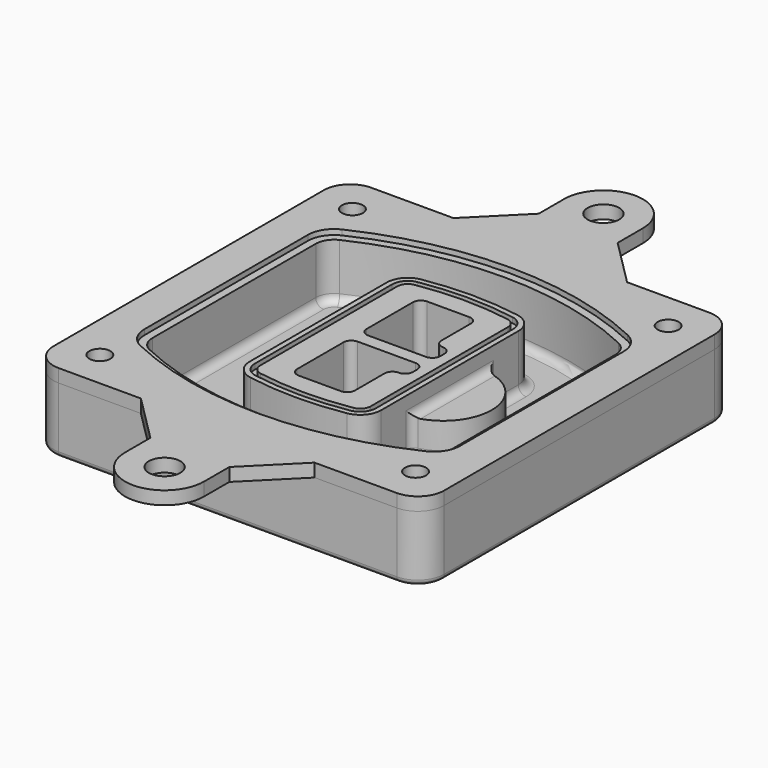
from build123d import *

# Parameters (mm, degrees)
F0_R      = 4
F1_DEPTH  = 25
F2_DEPTH  = 3
F3_DEPTH  = 18
F5_DEPTH  = 21
F6_DEPTH  = 2
F8_DEPTH  = 20
F9_DEPTH  = 16
F11_DEPTH = 9
F12_R     = 3
F13_R     = 2
F14_R     = 6
F14_R_2   = 4
F15_DEPTH = 5


with BuildPart() as f1:
    # F0 (on Top) → F1 (new body)
    with BuildSketch(Plane.XY):
        with BuildLine():
            ThreePointArc((-74.25, -64.25), (-71.3210678119, -71.3210678119), (-64.25, -74.25))
            Line((-64.25, -74.25), (64.25, -74.25))
            ThreePointArc((64.25, -74.25), (71.3210678119, -71.3210678119), (74.25, -64.25))
            Line((74.25, -64.25), (74.25, 64.25))
            ThreePointArc((74.25, 64.25), (71.3210678119, 71.3210678119), (64.25, 74.25))
            Line((64.25, 74.25), (-64.25, 74.25))
            ThreePointArc((-64.25, 74.25), (-71.3210678119, 71.3210678119), (-74.25, 64.25))
            Line((-74.25, 64.25), (-74.25, -64.25))
        make_face()
        with Locations((-60, -60)):
            Circle(F0_R, mode=Mode.SUBTRACT)
        with Locations((60, -60)):
            Circle(F0_R, mode=Mode.SUBTRACT)
        with Locations((-60, 60)):
            Circle(F0_R, mode=Mode.SUBTRACT)
        with BuildLine():
            ThreePointArc((-64, 38.8308515907), (-61.8195654598, 46.3340424013), (-55.9574468085, 51.5000594398))
            ThreePointArc((-55.9574468085, 51.5000594398), (0, 64), (55.9574468085, 51.5000594398))
            ThreePointArc((55.9574468085, 51.5000594398), (61.8195654598, 46.3340424013), (64, 38.8308515907))
            Line((64, 38.8308515907), (64, -38.8308515907))
            ThreePointArc((64, -38.8308515907), (61.8195654598, -46.3340424013), (55.9574468085, -51.5000594398))
            ThreePointArc((55.9574468085, -51.5000594398), (0, -64), (-55.9574468085, -51.5000594398))
            ThreePointArc((-55.9574468085, -51.5000594398), (-61.8195654598, -46.3340424013), (-64, -38.8308515907))
            Line((-64, -38.8308515907), (-64, 38.8308515907))
        make_face(mode=Mode.SUBTRACT)
        with Locations((60, 60)):
            Circle(F0_R, mode=Mode.SUBTRACT)
        with BuildLine():
            ThreePointArc((55.9574468085, 51.5000594398), (0, 64), (-55.9574468085, 51.5000594398))
            ThreePointArc((-55.9574468085, 51.5000594398), (-61.8195654598, 46.3340424013), (-64, 38.8308515907))
            Line((-64, 38.8308515907), (-64, -38.8308515907))
            ThreePointArc((-64, -38.8308515907), (-61.8195654598, -46.3340424013), (-55.9574468085, -51.5000594398))
            ThreePointArc((-55.9574468085, -51.5000594398), (0, -64), (55.9574468085, -51.5000594398))
            ThreePointArc((55.9574468085, -51.5000594398), (61.8195654598, -46.3340424013), (64, -38.8308515907))
            Line((64, -38.8308515907), (64, 38.8308515907))
            ThreePointArc((64, 38.8308515907), (61.8195654598, 46.3340424013), (55.9574468085, 51.5000594398))
        make_face()
        with BuildLine():
            Line((-60, -38.8308515907), (-60, 38.8308515907))
            ThreePointArc((-60, 38.8308515907), (-58.442546757, 44.1902735983), (-54.2553191489, 47.8802857686))
            ThreePointArc((-54.2553191489, 47.8802857686), (0, 60), (54.2553191489, 47.8802857686))
            ThreePointArc((54.2553191489, 47.8802857686), (58.442546757, 44.1902735983), (60, 38.8308515907))
            Line((60, 38.8308515907), (60, -38.8308515907))
            ThreePointArc((60, -38.8308515907), (58.442546757, -44.1902735983), (54.2553191489, -47.8802857686))
            ThreePointArc((54.2553191489, -47.8802857686), (0, -60), (-54.2553191489, -47.8802857686))
            ThreePointArc((-54.2553191489, -47.8802857686), (-58.442546757, -44.1902735983), (-60, -38.8308515907))
        make_face(mode=Mode.SUBTRACT)
        with BuildLine():
            ThreePointArc((-54.2553191489, 47.8802857686), (-58.442546757, 44.1902735983), (-60, 38.8308515907))
            Line((-60, 38.8308515907), (-60, -38.8308515907))
            ThreePointArc((-60, -38.8308515907), (-58.442546757, -44.1902735983), (-54.2553191489, -47.8802857686))
            ThreePointArc((-54.2553191489, -47.8802857686), (0, -60), (54.2553191489, -47.8802857686))
            ThreePointArc((54.2553191489, -47.8802857686), (58.442546757, -44.1902735983), (60, -38.8308515907))
            Line((60, -38.8308515907), (60, 38.8308515907))
            ThreePointArc((60, 38.8308515907), (58.442546757, 44.1902735983), (54.2553191489, 47.8802857686))
            ThreePointArc((54.2553191489, 47.8802857686), (0, 60), (-54.2553191489, 47.8802857686))
        make_face()
        with BuildLine():
            ThreePointArc((52.9787234043, 45.1654555152), (55.9097827299, 42.582446996), (57, 38.8308515907))
            Line((57, 38.8308515907), (57, -38.8308515907))
            ThreePointArc((57, -38.8308515907), (55.9097827299, -42.582446996), (52.9787234043, -45.1654555152))
            ThreePointArc((52.9787234043, -45.1654555152), (0, -57), (-52.9787234043, -45.1654555152))
            ThreePointArc((-52.9787234043, -45.1654555152), (-55.9097827299, -42.582446996), (-57, -38.8308515907))
            Line((-57, -38.8308515907), (-57, 38.8308515907))
            ThreePointArc((-57, 38.8308515907), (-55.9097827299, 42.582446996), (-52.9787234043, 45.1654555152))
            ThreePointArc((-52.9787234043, 45.1654555152), (0, 57), (52.9787234043, 45.1654555152))
        make_face(mode=Mode.SUBTRACT)
        with BuildLine():
            Line((57, -38.8308515907), (57, 38.8308515907))
            ThreePointArc((57, 38.8308515907), (55.9097827299, 42.582446996), (52.9787234043, 45.1654555152))
            ThreePointArc((52.9787234043, 45.1654555152), (0, 57), (-52.9787234043, 45.1654555152))
            ThreePointArc((-52.9787234043, 45.1654555152), (-55.9097827299, 42.582446996), (-57, 38.8308515907))
            Line((-57, 38.8308515907), (-57, -38.8308515907))
            ThreePointArc((-57, -38.8308515907), (-55.9097827299, -42.582446996), (-52.9787234043, -45.1654555152))
            ThreePointArc((-52.9787234043, -45.1654555152), (0, -57), (52.9787234043, -45.1654555152))
            ThreePointArc((52.9787234043, -45.1654555152), (55.9097827299, -42.582446996), (57, -38.8308515907))
        make_face()
    extrude(amount=-F1_DEPTH)

    # F0 (on Top) → F2 (join)
    with BuildSketch(Plane.XY):
        with BuildLine():
            ThreePointArc((-54.2553191489, 47.8802857686), (-58.442546757, 44.1902735983), (-60, 38.8308515907))
            Line((-60, 38.8308515907), (-60, -38.8308515907))
            ThreePointArc((-60, -38.8308515907), (-58.442546757, -44.1902735983), (-54.2553191489, -47.8802857686))
            ThreePointArc((-54.2553191489, -47.8802857686), (0, -60), (54.2553191489, -47.8802857686))
            ThreePointArc((54.2553191489, -47.8802857686), (58.442546757, -44.1902735983), (60, -38.8308515907))
            Line((60, -38.8308515907), (60, 38.8308515907))
            ThreePointArc((60, 38.8308515907), (58.442546757, 44.1902735983), (54.2553191489, 47.8802857686))
            ThreePointArc((54.2553191489, 47.8802857686), (0, 60), (-54.2553191489, 47.8802857686))
        make_face()
        with BuildLine():
            ThreePointArc((52.9787234043, 45.1654555152), (55.9097827299, 42.582446996), (57, 38.8308515907))
            Line((57, 38.8308515907), (57, -38.8308515907))
            ThreePointArc((57, -38.8308515907), (55.9097827299, -42.582446996), (52.9787234043, -45.1654555152))
            ThreePointArc((52.9787234043, -45.1654555152), (0, -57), (-52.9787234043, -45.1654555152))
            ThreePointArc((-52.9787234043, -45.1654555152), (-55.9097827299, -42.582446996), (-57, -38.8308515907))
            Line((-57, -38.8308515907), (-57, 38.8308515907))
            ThreePointArc((-57, 38.8308515907), (-55.9097827299, 42.582446996), (-52.9787234043, 45.1654555152))
            ThreePointArc((-52.9787234043, 45.1654555152), (0, 57), (52.9787234043, 45.1654555152))
        make_face(mode=Mode.SUBTRACT)
    extrude(amount=F2_DEPTH)

    # F0 (on Top) → F3 (cut)
    with BuildSketch(Plane.XY):
        with BuildLine():
            Line((57, -38.8308515907), (57, 38.8308515907))
            ThreePointArc((57, 38.8308515907), (55.9097827299, 42.582446996), (52.9787234043, 45.1654555152))
            ThreePointArc((52.9787234043, 45.1654555152), (0, 57), (-52.9787234043, 45.1654555152))
            ThreePointArc((-52.9787234043, 45.1654555152), (-55.9097827299, 42.582446996), (-57, 38.8308515907))
            Line((-57, 38.8308515907), (-57, -38.8308515907))
            ThreePointArc((-57, -38.8308515907), (-55.9097827299, -42.582446996), (-52.9787234043, -45.1654555152))
            ThreePointArc((-52.9787234043, -45.1654555152), (0, -57), (52.9787234043, -45.1654555152))
            ThreePointArc((52.9787234043, -45.1654555152), (55.9097827299, -42.582446996), (57, -38.8308515907))
        make_face()
    extrude(amount=-F3_DEPTH, mode=Mode.SUBTRACT)

    # F4 (on face) → F5 (join, through all)
    with BuildSketch(Plane.XY.offset(3)):
        with BuildLine():
            ThreePointArc((-25, -32.5662280692), (-23.1122504785, -37.7276614059), (-18.3399014778, -40.4532214146))
            ThreePointArc((-18.3399014778, -40.4532214146), (0, -42), (18.3399014778, -40.4532214146))
            ThreePointArc((18.3399014778, -40.4532214146), (23.1122504785, -37.7276614059), (25, -32.5662280692))
            Line((25, -32.5662280692), (25, 32.5662280692))
            ThreePointArc((25, 32.5662280692), (23.1122504785, 37.7276614059), (18.3399014778, 40.4532214146))
            ThreePointArc((18.3399014778, 40.4532214146), (0, 42), (-18.3399014778, 40.4532214146))
            ThreePointArc((-18.3399014778, 40.4532214146), (-23.1122504785, 37.7276614059), (-25, 32.5662280692))
            Line((-25, 32.5662280692), (-25, -32.5662280692))
        make_face()
        with BuildLine():
            ThreePointArc((18.0049261084, 38.4814730782), (21.5841878588, 36.4373030717), (23, 32.5662280692))
            Line((23, 32.5662280692), (23, -32.5662280692))
            ThreePointArc((23, -32.5662280692), (21.5841878588, -36.4373030717), (18.0049261084, -38.4814730782))
            ThreePointArc((18.0049261084, -38.4814730782), (0, -40), (-18.0049261084, -38.4814730782))
            ThreePointArc((-18.0049261084, -38.4814730782), (-21.5841878588, -36.4373030717), (-23, -32.5662280692))
            Line((-23, -32.5662280692), (-23, 32.5662280692))
            ThreePointArc((-23, 32.5662280692), (-21.5841878588, 36.4373030717), (-18.0049261084, 38.4814730782))
            ThreePointArc((-18.0049261084, 38.4814730782), (0, 40), (18.0049261084, 38.4814730782))
        make_face(mode=Mode.SUBTRACT)
        with BuildLine():
            Line((23, -32.5662280692), (23, 32.5662280692))
            ThreePointArc((23, 32.5662280692), (21.5841878588, 36.4373030717), (18.0049261084, 38.4814730782))
            ThreePointArc((18.0049261084, 38.4814730782), (0, 40), (-18.0049261084, 38.4814730782))
            ThreePointArc((-18.0049261084, 38.4814730782), (-21.5841878588, 36.4373030717), (-23, 32.5662280692))
            Line((-23, 32.5662280692), (-23, -32.5662280692))
            ThreePointArc((-23, -32.5662280692), (-21.5841878588, -36.4373030717), (-18.0049261084, -38.4814730782))
            ThreePointArc((-18.0049261084, -38.4814730782), (0, -40), (18.0049261084, -38.4814730782))
            ThreePointArc((18.0049261084, -38.4814730782), (21.5841878588, -36.4373030717), (23, -32.5662280692))
        make_face()
        with BuildLine():
            ThreePointArc((17.6699507389, 36.5097247419), (20.0561252392, 35.1469447375), (21, 32.5662280692))
            Line((21, 32.5662280692), (21, -32.5662280692))
            ThreePointArc((21, -32.5662280692), (20.0561252392, -35.1469447375), (17.6699507389, -36.5097247419))
            ThreePointArc((17.6699507389, -36.5097247419), (0, -38), (-17.6699507389, -36.5097247419))
            ThreePointArc((-17.6699507389, -36.5097247419), (-20.0561252392, -35.1469447375), (-21, -32.5662280692))
            Line((-21, -32.5662280692), (-21, 32.5662280692))
            ThreePointArc((-21, 32.5662280692), (-20.0561252392, 35.1469447375), (-17.6699507389, 36.5097247419))
            ThreePointArc((-17.6699507389, 36.5097247419), (0, 38), (17.6699507389, 36.5097247419))
        make_face(mode=Mode.SUBTRACT)
        with BuildLine():
            Line((21, -32.5662280692), (21, 32.5662280692))
            ThreePointArc((21, 32.5662280692), (20.0561252392, 35.1469447375), (17.6699507389, 36.5097247419))
            ThreePointArc((17.6699507389, 36.5097247419), (0, 38), (-17.6699507389, 36.5097247419))
            ThreePointArc((-17.6699507389, 36.5097247419), (-20.0561252392, 35.1469447375), (-21, 32.5662280692))
            Line((-21, 32.5662280692), (-21, -32.5662280692))
            ThreePointArc((-21, -32.5662280692), (-20.0561252392, -35.1469447375), (-17.6699507389, -36.5097247419))
            ThreePointArc((-17.6699507389, -36.5097247419), (0, -38), (17.6699507389, -36.5097247419))
            ThreePointArc((17.6699507389, -36.5097247419), (20.0561252392, -35.1469447375), (21, -32.5662280692))
        make_face()
        with BuildLine():
            Line((-8, -2.5), (14, -2.5))
            ThreePointArc((14, -2.5), (16.1213203436, -3.3786796564), (17, -5.5))
            Line((17, -5.5), (17, -7.5))
            ThreePointArc((17, -7.5), (16.1213203436, -9.6213203436), (14, -10.5))
            ThreePointArc((14, -10.5), (11.8786796564, -11.3786796564), (11, -13.5))
            Line((11, -13.5), (11, -27.5))
            ThreePointArc((11, -27.5), (10.1213203436, -29.6213203436), (8, -30.5))
            Line((8, -30.5), (-8, -30.5))
            ThreePointArc((-8, -30.5), (-10.1213203436, -29.6213203436), (-11, -27.5))
            Line((-11, -27.5), (-11, -5.5))
            ThreePointArc((-11, -5.5), (-10.1213203436, -3.3786796564), (-8, -2.5))
        make_face(mode=Mode.SUBTRACT)
        with BuildLine():
            ThreePointArc((-8, 2.5), (-10.1213203436, 3.3786796564), (-11, 5.5))
            Line((-11, 5.5), (-11, 27.5))
            ThreePointArc((-11, 27.5), (-10.1213203436, 29.6213203436), (-8, 30.5))
            Line((-8, 30.5), (8, 30.5))
            ThreePointArc((8, 30.5), (10.1213203436, 29.6213203436), (11, 27.5))
            Line((11, 27.5), (11, 13.5))
            ThreePointArc((11, 13.5), (11.8786796564, 11.3786796564), (14, 10.5))
            ThreePointArc((14, 10.5), (16.1213203436, 9.6213203436), (17, 7.5))
            Line((17, 7.5), (17, 5.5))
            ThreePointArc((17, 5.5), (16.1213203436, 3.3786796564), (14, 2.5))
            Line((14, 2.5), (-8, 2.5))
        make_face(mode=Mode.SUBTRACT)
    extrude(amount=-F5_DEPTH)

    # F4 (on face) → F6 (cut)
    with BuildSketch(Plane.XY.offset(3)):
        with BuildLine():
            Line((23, -32.5662280692), (23, 32.5662280692))
            ThreePointArc((23, 32.5662280692), (21.5841878588, 36.4373030717), (18.0049261084, 38.4814730782))
            ThreePointArc((18.0049261084, 38.4814730782), (0, 40), (-18.0049261084, 38.4814730782))
            ThreePointArc((-18.0049261084, 38.4814730782), (-21.5841878588, 36.4373030717), (-23, 32.5662280692))
            Line((-23, 32.5662280692), (-23, -32.5662280692))
            ThreePointArc((-23, -32.5662280692), (-21.5841878588, -36.4373030717), (-18.0049261084, -38.4814730782))
            ThreePointArc((-18.0049261084, -38.4814730782), (0, -40), (18.0049261084, -38.4814730782))
            ThreePointArc((18.0049261084, -38.4814730782), (21.5841878588, -36.4373030717), (23, -32.5662280692))
        make_face()
        with BuildLine():
            ThreePointArc((17.6699507389, 36.5097247419), (20.0561252392, 35.1469447375), (21, 32.5662280692))
            Line((21, 32.5662280692), (21, -32.5662280692))
            ThreePointArc((21, -32.5662280692), (20.0561252392, -35.1469447375), (17.6699507389, -36.5097247419))
            ThreePointArc((17.6699507389, -36.5097247419), (0, -38), (-17.6699507389, -36.5097247419))
            ThreePointArc((-17.6699507389, -36.5097247419), (-20.0561252392, -35.1469447375), (-21, -32.5662280692))
            Line((-21, -32.5662280692), (-21, 32.5662280692))
            ThreePointArc((-21, 32.5662280692), (-20.0561252392, 35.1469447375), (-17.6699507389, 36.5097247419))
            ThreePointArc((-17.6699507389, 36.5097247419), (0, 38), (17.6699507389, 36.5097247419))
        make_face(mode=Mode.SUBTRACT)
    extrude(amount=-F6_DEPTH, mode=Mode.SUBTRACT)

    # F7 (on face) → F8 (join)
    with BuildSketch(Plane(origin=(0, 0, -25), x_dir=(1, 0, 0), z_dir=(0, 0, -1))):
        with BuildLine():
            ThreePointArc((9.03842436, 0), (22.5067035675, 13.4682792075), (35.974982775, 0))
            Line((35.974982775, 0), (40.974982775, 0))
            ThreePointArc((40.974982775, 0), (22.5067035675, 18.4682792075), (4.03842436, 0))
            Line((4.03842436, 0), (9.03842436, 0))
        make_face()
        with BuildLine():
            Line((9.03842436, 0), (35.974982775, 0))
            ThreePointArc((35.974982775, 0), (22.5067035675, 13.4682792075), (9.03842436, 0))
        make_face()
        with BuildLine():
            ThreePointArc((9.03842436, 0), (22.5067035675, -13.4682792075), (35.974982775, 0))
            Line((35.974982775, 0), (9.03842436, 0))
        make_face()
        with BuildLine():
            Line((40.974982775, 0), (35.974982775, 0))
            ThreePointArc((35.974982775, 0), (22.5067035675, -13.4682792075), (9.03842436, 0))
            Line((9.03842436, 0), (4.03842436, 0))
            ThreePointArc((4.03842436, 0), (22.5067035675, -18.4682792075), (40.974982775, 0))
        make_face()
    extrude(amount=-F8_DEPTH)

    # F7 (on face) → F9 (cut)
    with BuildSketch(Plane(origin=(0, 0, -25), x_dir=(1, 0, 0), z_dir=(0, 0, -1))):
        with BuildLine():
            Line((9.03842436, 0), (35.974982775, 0))
            ThreePointArc((35.974982775, 0), (22.5067035675, 13.4682792075), (9.03842436, 0))
        make_face()
        with BuildLine():
            ThreePointArc((9.03842436, 0), (22.5067035675, -13.4682792075), (35.974982775, 0))
            Line((35.974982775, 0), (9.03842436, 0))
        make_face()
    extrude(amount=-F9_DEPTH, mode=Mode.SUBTRACT)

    # F10 (on face) → F11 (cut, through all)
    with BuildSketch(Plane(origin=(0, 0, -9), x_dir=(1, 0, 0), z_dir=(0, 0, -1))):
        with BuildLine():
            Line((11, 13.5), (11, 14.44552214))
            ThreePointArc((11, 14.44552214), (6.4518521949, 9.1279288062), (4.2084157545, 2.5))
            Line((4.2084157545, 2.5), (9.2724848595, 2.5))
            ThreePointArc((9.2724848595, 2.5), (10.9570840408, 6.9282633899), (14.0709369313, 10.499161208))
            ThreePointArc((14.0709369313, 10.499161208), (14.0354709452, 10.4997902947), (14, 10.5))
            ThreePointArc((14, 10.5), (11.8786796564, 11.3786796564), (11, 13.5))
        make_face()
        with BuildLine():
            ThreePointArc((14.0709369313, -10.499161208), (10.9570840408, -6.9282633899), (9.2724848595, -2.5))
            Line((9.2724848595, -2.5), (4.2084157545, -2.5))
            ThreePointArc((4.2084157545, -2.5), (6.4518521949, -9.1279288062), (11, -14.44552214))
            Line((11, -14.44552214), (11, -13.5))
            ThreePointArc((11, -13.5), (11.8786796564, -11.3786796564), (14, -10.5))
            ThreePointArc((14, -10.5), (14.0354709452, -10.4997902947), (14.0709369313, -10.499161208))
        make_face()
        with BuildLine():
            ThreePointArc((14.0709369313, 10.499161208), (10.9570840408, 6.9282633899), (9.2724848595, 2.5))
            Line((9.2724848595, 2.5), (14, 2.5))
            ThreePointArc((14, 2.5), (16.1213203436, 3.3786796564), (17, 5.5))
            Line((17, 5.5), (17, 7.5))
            ThreePointArc((17, 7.5), (16.1462538054, 9.5960903137), (14.0709369313, 10.499161208))
        make_face()
        with BuildLine():
            Line((14, -2.5), (9.2724848595, -2.5))
            ThreePointArc((9.2724848595, -2.5), (10.9570840408, -6.9282633899), (14.0709369313, -10.499161208))
            ThreePointArc((14.0709369313, -10.499161208), (16.1462538054, -9.5960903137), (17, -7.5))
            Line((17, -7.5), (17, -5.5))
            ThreePointArc((17, -5.5), (16.1213203436, -3.3786796564), (14, -2.5))
        make_face()
    extrude(amount=F11_DEPTH, mode=Mode.SUBTRACT)

    # F12
    f12_edges = [f1.edges().sort_by_distance(p)[0] for p in [
        (-57, 0, -18),
        (25, 0, -5),
        (25, 18.299202, -11.5),
        (25, -18.299202, -11.5),
        (25, -25.432715, -18),
        (40.974983, 0, -18),
    ]]
    fillet(f12_edges, radius=F12_R)

    # F13
    f13_edges = [f1.edges().sort_by_distance(p)[0] for p in [
        (0, -74.25, -25),
    ]]
    fillet(f13_edges, radius=F13_R)


with BuildPart() as f15:
    # F14 (on face) → F15 (new body)
    with BuildSketch(Plane.XY):
        with BuildLine():
            Line((15, 92.25), (15, 104.25))
            ThreePointArc((15, 104.25), (0, 119.25), (-15, 104.25))
            Line((-15, 104.25), (-15, 92.25))
            Line((-15, 92.25), (-33, 74.25))
            Line((-33, 74.25), (33, 74.25))
            Line((33, 74.25), (15, 92.25))
        make_face()
        with Locations((0, 104.25)):
            Circle(F14_R, mode=Mode.SUBTRACT)
        with BuildLine():
            Line((15, -92.25), (33, -74.25))
            Line((33, -74.25), (-33, -74.25))
            Line((-33, -74.25), (-15, -92.25))
            Line((-15, -92.25), (-15, -104.25))
            ThreePointArc((-15, -104.25), (0, -119.25), (15, -104.25))
            Line((15, -104.25), (15, -92.25))
        make_face()
        with Locations((0, -104.25)):
            Circle(F14_R, mode=Mode.SUBTRACT)
        with BuildLine():
            Line((64.25, 74.25), (33, 74.25))
            Line((33, 74.25), (-33, 74.25))
            Line((-33, 74.25), (-64.25, 74.25))
            ThreePointArc((-64.25, 74.25), (-71.3210678119, 71.3210678119), (-74.25, 64.25))
            Line((-74.25, 64.25), (-74.25, -64.25))
            ThreePointArc((-74.25, -64.25), (-71.3210678119, -71.3210678119), (-64.25, -74.25))
            Line((-64.25, -74.25), (-33, -74.25))
            Line((-33, -74.25), (33, -74.25))
            Line((33, -74.25), (64.25, -74.25))
            ThreePointArc((64.25, -74.25), (71.3210678119, -71.3210678119), (74.25, -64.25))
            Line((74.25, -64.25), (74.25, 64.25))
            ThreePointArc((74.25, 64.25), (71.3210678119, 71.3210678119), (64.25, 74.25))
        make_face()
        with Locations((-60, -60)):
            Circle(F14_R_2, mode=Mode.SUBTRACT)
        with Locations((60, -60)):
            Circle(F14_R_2, mode=Mode.SUBTRACT)
        with BuildLine():
            ThreePointArc((-60, 38.8308515907), (-58.442546757, 44.1902735983), (-54.2553191489, 47.8802857686))
            ThreePointArc((-54.2553191489, 47.8802857686), (0, 60), (54.2553191489, 47.8802857686))
            ThreePointArc((54.2553191489, 47.8802857686), (58.442546757, 44.1902735983), (60, 38.8308515907))
            Line((60, 38.8308515907), (60, -38.8308515907))
            ThreePointArc((60, -38.8308515907), (58.442546757, -44.1902735983), (54.2553191489, -47.8802857686))
            ThreePointArc((54.2553191489, -47.8802857686), (0, -60), (-54.2553191489, -47.8802857686))
            ThreePointArc((-54.2553191489, -47.8802857686), (-58.442546757, -44.1902735983), (-60, -38.8308515907))
            Line((-60, -38.8308515907), (-60, 38.8308515907))
        make_face(mode=Mode.SUBTRACT)
        with Locations((-60, 60)):
            Circle(F14_R_2, mode=Mode.SUBTRACT)
        with Locations((60, 60)):
            Circle(F14_R_2, mode=Mode.SUBTRACT)
    extrude(amount=F15_DEPTH)


solid = Compound([f1.part, f15.part])
